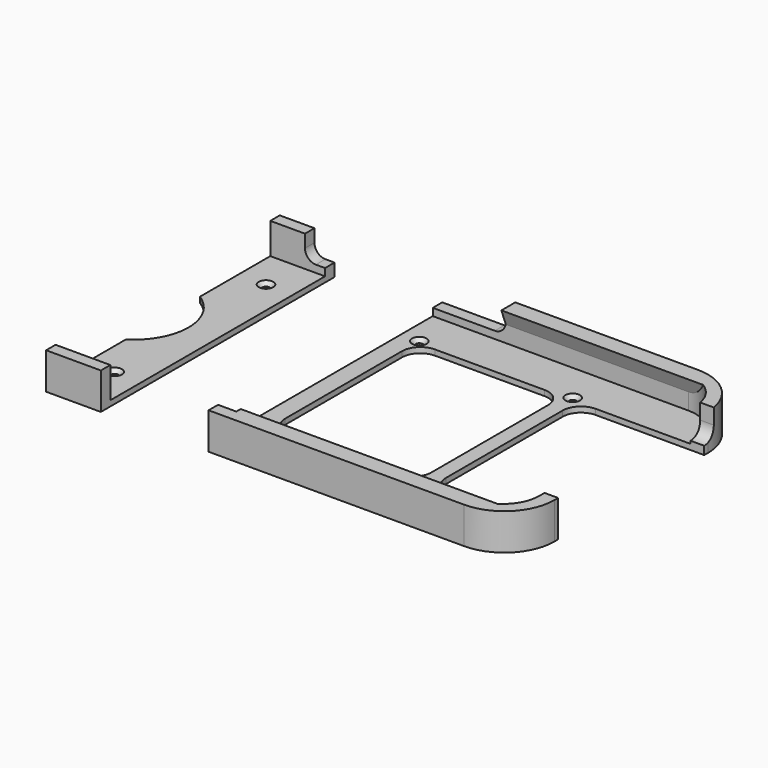
from build123d import *

# Parameters (mm, degrees)
F0_R     = 1
F0_W     = 15
F0_H     = 3.25
F1_DEPTH = 1.5
F2_DEPTH = 8.5
F4_DEPTH = 70
F6_DEPTH = 78.751
F8_DEPTH = 50
F9_SIZE  = 1


with BuildPart() as f1:
    # F0 (on Top) → F1 (new body)
    with BuildSketch(Plane.XY):
        with BuildLine():
            Line((75, 25), (75, 26.75))
            ThreePointArc((75, 26.75), (72.071068, 33.821068), (65, 36.75))
            Line((65, 36.75), (25, 36.75))
            Line((25, 36.75), (0, 36.75))
            Line((0, 36.75), (-5, 36.75))
            Line((-5, 36.75), (-5, -36.75))
            Line((-5, -36.75), (0, -36.75))
            Line((0, -36.75), (25, -36.75))
            Line((25, -36.75), (65, -36.75))
            ThreePointArc((65, -36.75), (72.071068, -33.821068), (75, -26.75))
            Line((75, -26.75), (75, -25))
            Line((75, -25), (49, -25))
            ThreePointArc((49, -25), (45.464466, -23.535534), (44, -20))
            Line((44, -20), (44, 20))
            ThreePointArc((44, 20), (45.464466, 23.535534), (49, 25))
            Line((49, 25), (75, 25))
        make_face()
        with Locations((0, -25.9)):
            Circle(F0_R, mode=Mode.SUBTRACT)
        with Locations((42, -25.9)):
            Circle(F0_R, mode=Mode.SUBTRACT)
        with Locations((0, 25.9)):
            Circle(F0_R, mode=Mode.SUBTRACT)
        with BuildLine():
            ThreePointArc((40, -20), (38.535534, -23.535534), (35, -25))
            Line((35, -25), (5, -25))
            ThreePointArc((5, -25), (1.464466, -23.535534), (0, -20))
            Line((0, -20), (0, 20))
            ThreePointArc((0, 20), (1.464466, 23.535534), (5, 25))
            Line((5, 25), (35, 25))
            ThreePointArc((35, 25), (38.535534, 23.535534), (40, 20))
            Line((40, 20), (40, -20))
        make_face(mode=Mode.SUBTRACT)
        with Locations((42, 25.9)):
            Circle(F0_R, mode=Mode.SUBTRACT)
        with BuildLine():
            Line((-49.5, -36.75), (-34.5, -36.75))
            Line((-34.5, -36.75), (-34.5, 36.75))
            Line((-34.5, 36.75), (-49.5, 36.75))
            Line((-49.5, 36.75), (-49.5, 12.688578))
            ThreePointArc((-49.5, 12.688578), (-42.5, 0), (-49.5, -12.688578))
            Line((-49.5, -12.688578), (-49.5, -36.75))
        make_face()
        with Locations((-42, -25.9)):
            Circle(F0_R, mode=Mode.SUBTRACT)
        with Locations((-42, 25.9)):
            Circle(F0_R, mode=Mode.SUBTRACT)
        with Locations((-42, 38.375)):
            Rectangle(F0_W, F0_H)
        Polygon((0, 36.75), (25, 36.75), (25, 40), (-5, 40), (-5, 36.75), align=None)
        with Locations((-42, -38.375)):
            Rectangle(F0_W, F0_H)
        Polygon((25, -40), (25, -36.75), (0, -36.75), (-5, -36.75), (-5, -40), align=None)
        with BuildLine():
            Line((78.75, -25), (75, -25))
            Line((75, -25), (75, -26.75))
            ThreePointArc((75, -26.75), (72.071068, -33.821068), (65, -36.75))
            Line((65, -36.75), (25, -36.75))
            Line((25, -36.75), (25, -40))
            Line((25, -40), (65, -40))
            ThreePointArc((65, -40), (74.722718, -35.972718), (78.75, -26.25))
            Line((78.75, -26.25), (78.75, -25))
        make_face()
        with BuildLine():
            ThreePointArc((65, 36.75), (72.071068, 33.821068), (75, 26.75))
            Line((75, 26.75), (75, 25))
            Line((75, 25), (78.75, 25))
            Line((78.75, 25), (78.75, 26.25))
            ThreePointArc((78.75, 26.25), (74.722718, 35.972718), (65, 40))
            Line((65, 40), (25, 40))
            Line((25, 40), (25, 36.75))
            Line((25, 36.75), (65, 36.75))
        make_face()
    extrude(amount=-F1_DEPTH)

    # F0 (on Top) → F2 (join)
    with BuildSketch(Plane.XY):
        with BuildLine():
            ThreePointArc((65, 36.75), (72.071068, 33.821068), (75, 26.75))
            Line((75, 26.75), (75, 25))
            Line((75, 25), (78.75, 25))
            Line((78.75, 25), (78.75, 26.25))
            ThreePointArc((78.75, 26.25), (74.722718, 35.972718), (65, 40))
            Line((65, 40), (25, 40))
            Line((25, 40), (25, 36.75))
            Line((25, 36.75), (65, 36.75))
        make_face()
        with BuildLine():
            Line((78.75, -25), (75, -25))
            Line((75, -25), (75, -26.75))
            ThreePointArc((75, -26.75), (72.071068, -33.821068), (65, -36.75))
            Line((65, -36.75), (25, -36.75))
            Line((25, -36.75), (25, -40))
            Line((25, -40), (65, -40))
            ThreePointArc((65, -40), (74.722718, -35.972718), (78.75, -26.25))
            Line((78.75, -26.25), (78.75, -25))
        make_face()
        Polygon((25, -40), (25, -36.75), (0, -36.75), (-5, -36.75), (-5, -40), align=None)
        with Locations((-42, -38.375)):
            Rectangle(F0_W, F0_H)
        Polygon((0, 36.75), (25, 36.75), (25, 40), (-5, 40), (-5, 36.75), align=None)
        with Locations((-42, 38.375)):
            Rectangle(F0_W, F0_H)
    extrude(amount=F2_DEPTH)

    # F3 (on Right) → F4 (join)
    with BuildSketch(Plane.YZ):
        Polygon((36.75, 4.5), (36.75, 8.5), (35.25, 8.5), align=None)
        Polygon((-35.25, 8.5), (-36.75, 8.5), (-36.75, 4.5), align=None)
    extrude(amount=F4_DEPTH)

    # F5 (on Right) → F6 (cut, through all)
    with BuildSketch(Plane.YZ):
        with BuildLine():
            ThreePointArc((28.5, 4.25), (27.474874, 6.724874), (25, 7.75))
            Line((25, 7.75), (25, 0.75))
            ThreePointArc((25, 0.75), (27.474874, 1.775126), (28.5, 4.25))
        make_face()
        with BuildLine():
            Line((25, 8.5), (25, 7.75))
            ThreePointArc((25, 7.75), (27.474874, 6.724874), (28.5, 4.25))
            Line((28.5, 4.25), (28.5, 8.5))
            Line((28.5, 8.5), (25, 8.5))
        make_face()
    extrude(amount=F6_DEPTH, mode=Mode.SUBTRACT)

    # F7 (on Front) → F8 (cut)
    with BuildSketch(Plane.XZ):
        with BuildLine():
            Line((-37, 2), (12, 2))
            ThreePointArc((12, 2), (14.12132, 2.87868), (15, 5))
            Line((15, 5), (15, 12))
            Line((15, 12), (-40, 12))
            Line((-40, 12), (-40, 5))
            ThreePointArc((-40, 5), (-39.12132, 2.87868), (-37, 2))
        make_face()
    extrude(amount=-F8_DEPTH, mode=Mode.SUBTRACT)

    # F9
    f9_edges = [f1.edges().sort_by_distance(p)[0] for p in [
        (-43, 25.9, 0),
        (-43, -25.9, 0),
        (-1, 25.9, 0),
        (-1, -25.9, 0),
        (41, 25.9, 0),
        (41, -25.9, 0),
    ]]
    chamfer(f9_edges, length=F9_SIZE)


solid = f1.part
